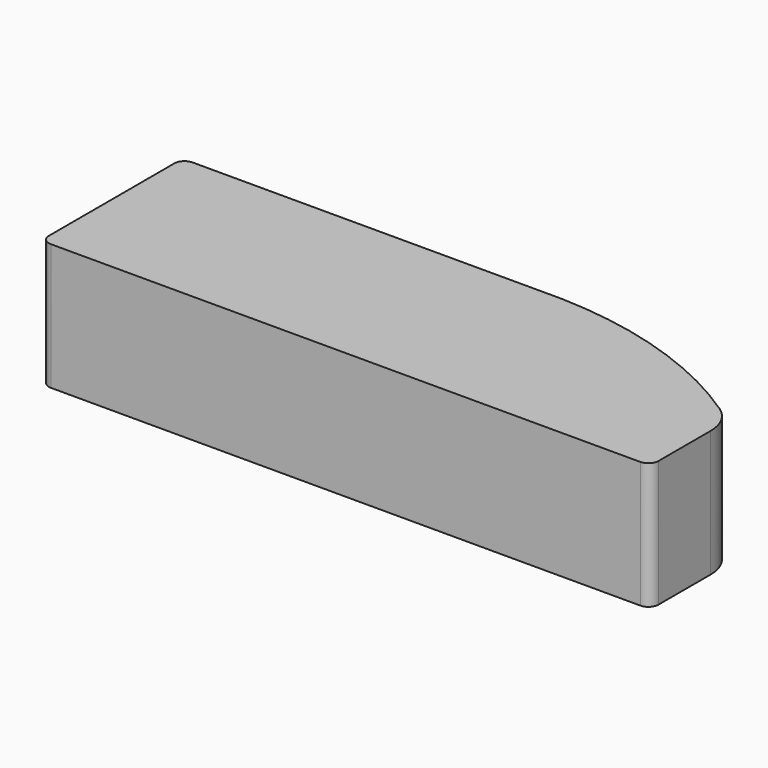
from build123d import *

# Parameters (mm, degrees)
F1_DEPTH = 25
F2_R     = 2
F3_R     = 8


with BuildPart() as f1:
    # F0 (on Top) → F1 (new body)
    with BuildSketch(Plane.XY):
        with BuildLine():
            Line((-54.407789, -23.747728), (66.092211, -23.747728))
            Line((66.092211, -23.747728), (66.092211, -4.747728))
            ThreePointArc((66.092211, -4.747728), (44.589047, 6.797961), (20.592211, 11.252272))
            Line((20.592211, 11.252272), (-54.407789, 11.252272))
            Line((-54.407789, 11.252272), (-54.407789, -23.747728))
        make_face()
    extrude(amount=F1_DEPTH)

    # F2
    f2_edges = [f1.edges().sort_by_distance(p)[0] for p in [
        (-54.407789, -23.747728, 12.5),
        (66.092211, -23.747728, 12.5),
        (-54.407789, 11.252272, 12.5),
    ]]
    fillet(f2_edges, radius=F2_R)

    # F3
    f3_edges = [f1.edges().sort_by_distance(p)[0] for p in [
        (66.092211, -4.747728, 12.5),
    ]]
    fillet(f3_edges, radius=F3_R)


solid = f1.part
